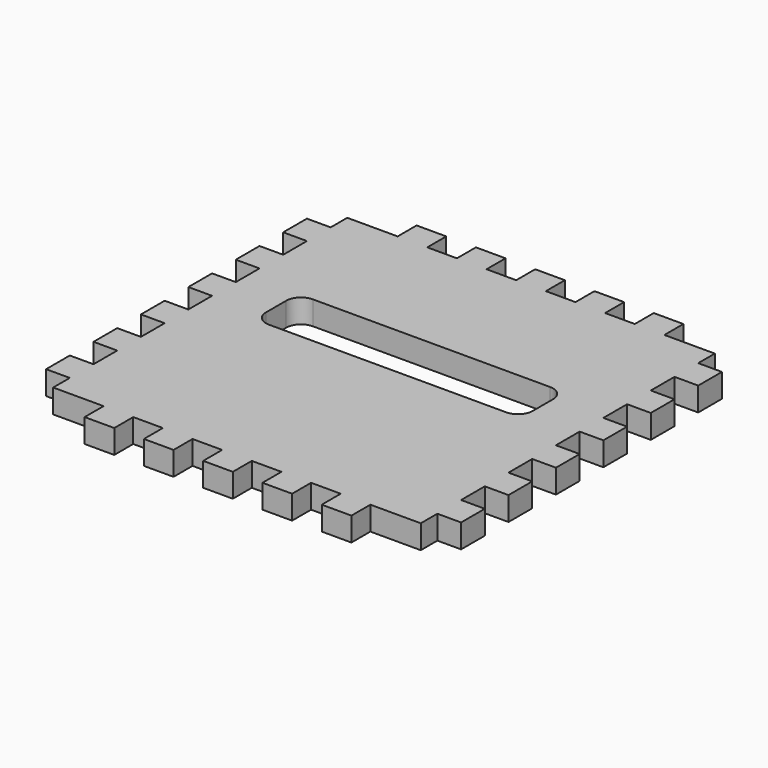
from build123d import *

# Parameters (mm, degrees)
F1_DEPTH = 10.16


with BuildPart() as f1:
    # F0 (on Top) → F1 (new body)
    with BuildSketch(Plane.XY):
        Polygon((44.45, 0), (31.75, 0), (31.75, -10.16), (10.16, -10.16), (10.16, -19.05), (0, -19.05), (0, -31.75), (10.16, -31.75), (10.16, -44.45), (0, -44.45), (0, -57.15), (10.16, -57.15), (10.16, -69.85), (0, -69.85), (0, -82.55), (10.16, -82.55), (10.16, -95.25), (0, -95.25), (0, -107.95), (10.16, -107.95), (10.16, -120.65), (0, -120.65), (0, -133.35), (10.16, -133.35), (10.16, -146.05), (0, -146.05), (0, -158.75), (10.16, -158.75), (10.16, -167.64), (31.75, -167.64), (31.75, -177.8), (44.45, -177.8), (44.45, -167.64), (57.15, -167.64), (57.15, -177.8), (69.85, -177.8), (69.85, -167.64), (82.55, -167.64), (82.55, -177.8), (95.25, -177.8), (95.25, -167.64), (107.95, -167.64), (107.95, -177.8), (120.65, -177.8), (120.65, -167.64), (133.35, -167.64), (133.35, -177.8), (146.05, -177.8), (146.05, -167.64), (167.64, -167.64), (167.64, -158.75), (177.8, -158.75), (177.8, -146.05), (167.64, -146.05), (167.64, -133.35), (177.8, -133.35), (177.8, -120.65), (167.64, -120.65), (167.64, -107.95), (177.8, -107.95), (177.8, -95.25), (167.64, -95.25), (167.64, -82.55), (177.8, -82.55), (177.8, -69.85), (167.64, -69.85), (167.64, -57.15), (177.8, -57.15), (177.8, -44.45), (167.64, -44.45), (167.64, -31.75), (177.8, -31.75), (177.8, -19.05), (167.64, -19.05), (167.64, -10.16), (146.05, -10.16), (146.05, 0), (133.35, 0), (133.35, -10.16), (120.65, -10.16), (120.65, 0), (107.95, 0), (107.95, -10.16), (95.25, -10.16), (95.25, 0), (82.55, 0), (82.55, -10.16), (69.85, -10.16), (69.85, 0), (57.15, 0), (57.15, -10.16), (44.45, -10.16), align=None)
        with BuildLine():
            ThreePointArc((31.75, -69.85), (33.609872, -65.359872), (38.1, -63.5))
            Line((38.1, -63.5), (139.7, -63.5))
            ThreePointArc((139.7, -63.5), (144.190128, -65.359872), (146.05, -69.85))
            Line((146.05, -69.85), (146.05, -80.645))
            ThreePointArc((146.05, -80.645), (144.190128, -85.135128), (139.7, -86.995))
            Line((139.7, -86.995), (38.1, -86.995))
            ThreePointArc((38.1, -86.995), (33.609872, -85.135128), (31.75, -80.645))
            Line((31.75, -80.645), (31.75, -69.85))
        make_face(mode=Mode.SUBTRACT)
    extrude(amount=F1_DEPTH)


solid = f1.part
